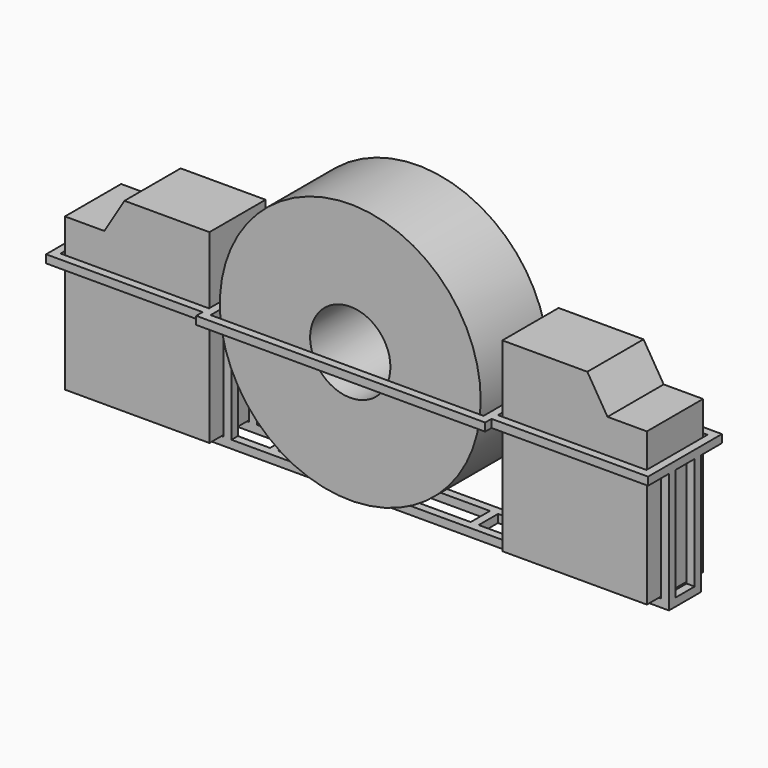
from build123d import *

# Parameters (mm, degrees)
F0_W     = 37
F0_H     = 2
F0_W_2   = 2
F0_H_2   = 6
F1_DEPTH = 2
F2_DEPTH = 30
F3_START = 30
F3_DEPTH = 2
F5_DEPTH = 8.75
F4_R     = 32.5
F4_R_2   = 10
F6_DEPTH = 10.5


with BuildPart() as f1:
    # F0 (on Top) → F1 (new body)
    with BuildSketch(Plane.XY):
        with Locations((-54.5, 4)):
            Rectangle(F0_W, F0_H)
        Polygon((-75, -3), (-73, -3), (-73, 0), (-73, 3), (-75, 3), (-75, 0), align=None)
        with Locations((-74, 4)):
            Rectangle(F0_W_2, F0_H)
        with Locations((-74, -4)):
            Rectangle(F0_W_2, F0_H)
        with Locations((-54.5, -4)):
            Rectangle(F0_W, F0_H)
        with Locations((-35, -4)):
            Rectangle(F0_W_2, F0_H)
        with Locations((-35, 4)):
            Rectangle(F0_W_2, F0_H)
        Polygon((26, 3), (34, 3), (34, 5), (-34, 5), (-34, 3), (-26, 3), (-24, 3), (24, 3), align=None)
        with Locations((-25, 0)):
            Rectangle(F0_W_2, F0_H_2)
        Polygon((-34, -5), (34, -5), (34, -3), (26, -3), (24, -3), (-24, -3), (-26, -3), (-34, -3), align=None)
        with Locations((25, 0)):
            Rectangle(F0_W_2, F0_H_2)
        with Locations((35, 4)):
            Rectangle(F0_W_2, F0_H)
        with Locations((35, -4)):
            Rectangle(F0_W_2, F0_H)
        with Locations((54.5, 4)):
            Rectangle(F0_W, F0_H)
        with Locations((54.5, -4)):
            Rectangle(F0_W, F0_H)
        with Locations((74, 4)):
            Rectangle(F0_W_2, F0_H)
        Polygon((73, -3), (75, -3), (75, 0), (75, 3), (73, 3), (73, 0), align=None)
        with Locations((74, -4)):
            Rectangle(F0_W_2, F0_H)
    extrude(amount=F1_DEPTH)

    # F0 (on Top) → F2 (join)
    with BuildSketch(Plane.XY):
        with Locations((-74, 4)):
            Rectangle(F0_W_2, F0_H)
        with Locations((-74, -4)):
            Rectangle(F0_W_2, F0_H)
        with Locations((-35, 4)):
            Rectangle(F0_W_2, F0_H)
        with Locations((-35, -4)):
            Rectangle(F0_W_2, F0_H)
        with Locations((35, 4)):
            Rectangle(F0_W_2, F0_H)
        with Locations((35, -4)):
            Rectangle(F0_W_2, F0_H)
        with Locations((74, 4)):
            Rectangle(F0_W_2, F0_H)
        with Locations((74, -4)):
            Rectangle(F0_W_2, F0_H)
    extrude(amount=F2_DEPTH)

    # F0 (on Top) → F3 (join)
    with BuildSketch(Plane.XY.offset(F3_START)):
        Polygon((73, 5), (75, 5), (75, 11.5), (36, 11.5), (36, 9.5), (73, 9.5), align=None)
        with Locations((74, 4)):
            Rectangle(F0_W_2, F0_H)
        Polygon((73, -3), (75, -3), (75, 0), (75, 3), (73, 3), (73, 0), align=None)
        with Locations((74, -4)):
            Rectangle(F0_W_2, F0_H)
        Polygon((75, -11.5), (75, -5), (73, -5), (73, -9.5), (36, -9.5), (36, -11.5), align=None)
        Polygon((34, 5), (36, 5), (36, 9.5), (36, 11.5), (36, 13.5), (-36, 13.5), (-36, 11.5), (-36, 9.5), (-36, 5), (-34, 5), (-34, 11.5), (34, 11.5), align=None)
        with Locations((35, 4)):
            Rectangle(F0_W_2, F0_H)
        with Locations((35, 0)):
            Rectangle(F0_W_2, F0_H_2)
        with Locations((35, -4)):
            Rectangle(F0_W_2, F0_H)
        Polygon((36, -9.5), (36, -5), (34, -5), (34, -11.5), (-34, -11.5), (-34, -5), (-36, -5), (-36, -9.5), (-36, -11.5), (-36, -13.5), (36, -13.5), (36, -11.5), align=None)
        with Locations((-35, 4)):
            Rectangle(F0_W_2, F0_H)
        with Locations((-35, 0)):
            Rectangle(F0_W_2, F0_H_2)
        with Locations((-35, -4)):
            Rectangle(F0_W_2, F0_H)
        Polygon((-75, 5), (-73, 5), (-73, 9.5), (-36, 9.5), (-36, 11.5), (-75, 11.5), align=None)
        Polygon((-75, -11.5), (-36, -11.5), (-36, -9.5), (-73, -9.5), (-73, -5), (-75, -5), align=None)
        with Locations((-74, -4)):
            Rectangle(F0_W_2, F0_H)
        Polygon((-75, -3), (-73, -3), (-73, 0), (-73, 3), (-75, 3), (-75, 0), align=None)
        with Locations((-74, 4)):
            Rectangle(F0_W_2, F0_H)
    extrude(amount=F3_DEPTH)


with BuildPart() as f5:
    # F4 (on Front) → F5 (new body, symmetric)
    with BuildSketch(Plane.XZ):
        Polygon((-72.5, 2), (-36.5, 2), (-36.5, 48.2532925308), (-57.6668344438, 48.2532925308), (-62.6910105348, 40), (-72.5, 40), align=None)
    extrude(amount=F5_DEPTH, both=True)


with BuildPart() as f5b:
    # F4 (on Front) → F5, piece 2 (new body, symmetric)
    with BuildSketch(Plane.XZ):
        Polygon((36.5, 48.2532925308), (36.5, 2), (72.5, 2), (72.5, 40), (62.6910105348, 40), (57.6668344438, 48.2532925308), align=None)
    extrude(amount=F5_DEPTH, both=True)


with BuildPart() as f6:
    # F4 (on Front) → F6 (new body, symmetric)
    with BuildSketch(Plane.XZ):
        with Locations((0, 34.5)):
            Circle(F4_R)
        with Locations((0, 34.5)):
            Circle(F4_R_2, mode=Mode.SUBTRACT)
    extrude(amount=F6_DEPTH, both=True)


solid = Compound([f1.part, f5.part, f5b.part, f6.part])
